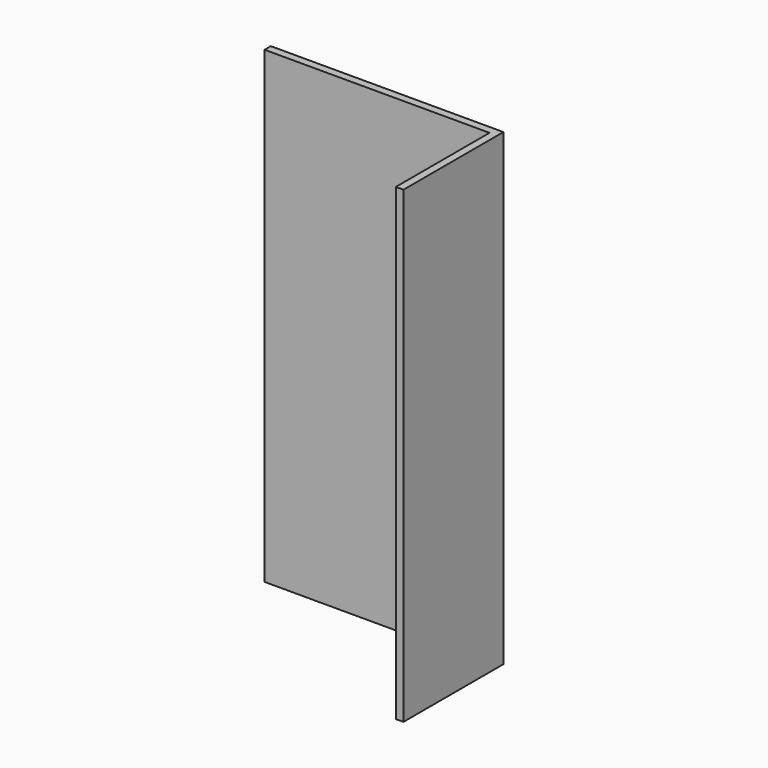
from build123d import *

# Parameters (mm, degrees)
F1_DEPTH = 4572
F2_W     = 609.6
F2_H     = 2133.6
F3_DEPTH = 152.4


with BuildPart() as f1:
    # F0 (on Top) → F1 (new body)
    with BuildSketch(Plane.XY):
        Polygon((1537.094997, 594.392333), (-733.665003, 594.392333), (-731.892695, 518.212947), (1462.667305, 518.212947), (1462.667305, -624.807667), (1537.094997, -624.807667), align=None)
    extrude(amount=F1_DEPTH)

    # F2 (on face) → F3 (cut)
    with BuildSketch(Plane(origin=(0, 594.392333, 0), x_dir=(-1, 0, 0), z_dir=(0, 1, 0))):
        with Locations((-1140.854997, 1066.8)):
            Rectangle(F2_W, F2_H)
    extrude(amount=-F3_DEPTH, mode=Mode.SUBTRACT)


solid = f1.part
